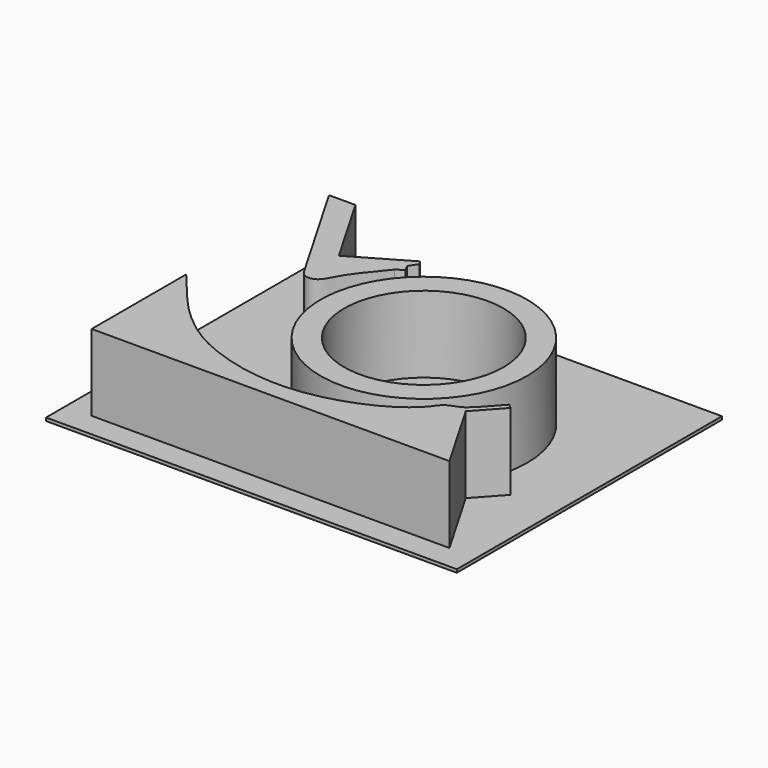
from build123d import *

# Parameters (mm, degrees)
F0_W     = 128.8466192782
F0_H     = 103.9387658238
F0_R     = 32.4149354106
F0_R_2   = 24.9955574606
F1_DEPTH = 1
F2_DEPTH = 25
F3_SCALE = 2.3137482768


with BuildPart() as f1:
    # F0 (on Top) → F1 (new body)
    with BuildSketch(Plane.XY):
        with Locations((14.2612140626, -5.0945468247)):
            Rectangle(F0_W, F0_H)
        with BuildLine():
            Line((-41.9851355255, -49.414653331), (-41.9851355255, -12.3467817903))
            add(Edge.make_bspline(
                [(-41.9851355255, -12.3467817903), (-36.3967784384, -18.8449727069), (-32.1424049152, -24.7040496659), (-22.8563463397, -32.9873221008), (-12.0101651624, -39.837428659), (16.564814538, -47.8863203718), (43.5484647751, -36.5438014269), (49.1027832031, -28.7805534899)],
                knots=[0, 0, 0, 0, 0.1844848392, 0.3316690726, 0.4896983473, 0.7323640813, 1, 1, 1, 1], degree=3))
            add(Edge.make_bspline(
                [(57.7565097543, -22.6376708612), (56.6207453111, -23.7747538402), (54.8924607702, -25.4631297698), (51.1620999135, -26.310544921), (49.4963274328, -28.0857197846), (49.1027832031, -28.7805534899)],
                knots=[0, 0, 0, 0, 0.3554545122, 0.6943021938, 1, 1, 1, 1], degree=3))
            Line((57.7565097543, -22.6376708612), (62.9957451229, -16.8610578102))
            Line((62.9957451229, -16.8610578102), (64.300657325, -18.0445786904))
            Line((64.300657325, -18.0445786904), (56.8408086757, -26.2695687958))
            Line((56.8408086757, -26.2695687958), (70.2343061566, -49.414653331))
            Line((70.2343061566, -49.414653331), (-41.9851355255, -49.414653331))
        make_face(mode=Mode.SUBTRACT)
        with BuildLine():
            Line((-32.6215874869, 42.3041246831), (-18.9677700843, 18.7341238128))
            Line((-18.9677700843, 18.7341238128), (-1.5299430816, 28.8356468081))
            Line((-1.5299430816, 28.8356468081), (-0.7622250123, 27.5954864919))
            Line((-0.7622250123, 27.5954864919), (-2.5057015009, 24.9544270337))
            Line((-2.5057015009, 24.9544270337), (-1.4959619148, 23.0094380677))
            Line((-1.4959619148, 23.0094380677), (-3.7306314334, 21.5362105519))
            add(Edge.make_bspline(
                [(-3.7306314334, 21.5362105519), (-6.5005469966, 18.0159286469), (-10.9410352174, 12.9963019479), (-13.1823487403, 8.3727682989), (-14.6379791594, 5.9356637591), (-16.901027249, 4.6935576771), (-19.530875768, 5.3695780508), (-20.0020056218, 6.3195019029), (-20.4997636371, 7.0544643041)],
                knots=[0, 0, 0, 0, 0.290363485, 0.4783981708, 0.6179320642, 0.7501008839, 0.8803191229, 1, 1, 1, 1], degree=3))
            Line((-20.4997636371, 7.0544643041), (-40.919467012, 42.3041246831))
            Line((-40.919467012, 42.3041246831), (-32.6215874869, 42.3041246831))
        make_face(mode=Mode.SUBTRACT)
        with Locations((24.4927369058, -2.2526283283)):
            Circle(F0_R, mode=Mode.SUBTRACT)
        with Locations((24.4927369058, -2.2526283283)):
            Circle(F0_R)
        with Locations((24.4927369058, -2.2526283283)):
            Circle(F0_R_2, mode=Mode.SUBTRACT)
        with Locations((24.4927369058, -2.2526283283)):
            Circle(F0_R_2)
        with BuildLine():
            Line((-1.5299430816, 28.8356468081), (-18.9677700843, 18.7341238128))
            Line((-18.9677700843, 18.7341238128), (-32.6215874869, 42.3041246831))
            Line((-32.6215874869, 42.3041246831), (-40.919467012, 42.3041246831))
            Line((-40.919467012, 42.3041246831), (-20.4997636371, 7.0544643041))
            add(Edge.make_bspline(
                [(-3.7306314334, 21.5362105519), (-6.5005469966, 18.0159286469), (-10.9410352174, 12.9963019479), (-13.1823487403, 8.3727682989), (-14.6379791594, 5.9356637591), (-16.901027249, 4.6935576771), (-19.530875768, 5.3695780508), (-20.0020056218, 6.3195019029), (-20.4997636371, 7.0544643041)],
                knots=[0, 0, 0, 0, 0.290363485, 0.4783981708, 0.6179320642, 0.7501008839, 0.8803191229, 1, 1, 1, 1], degree=3))
            Line((-3.7306314334, 21.5362105519), (-1.4959619148, 23.0094380677))
            Line((-1.4959619148, 23.0094380677), (-2.5057015009, 24.9544270337))
            Line((-2.5057015009, 24.9544270337), (-0.7622250123, 27.5954864919))
            Line((-0.7622250123, 27.5954864919), (-1.5299430816, 28.8356468081))
        make_face()
        with BuildLine():
            add(Edge.make_bspline(
                [(-41.9851355255, -12.3467817903), (-36.3967784384, -18.8449727069), (-32.1424049152, -24.7040496659), (-22.8563463397, -32.9873221008), (-12.0101651624, -39.837428659), (16.564814538, -47.8863203718), (43.5484647751, -36.5438014269), (49.1027832031, -28.7805534899)],
                knots=[0, 0, 0, 0, 0.1844848392, 0.3316690726, 0.4896983473, 0.7323640813, 1, 1, 1, 1], degree=3))
            Line((-41.9851355255, -12.3467817903), (-41.9851355255, -49.414653331))
            Line((-41.9851355255, -49.414653331), (70.2343061566, -49.414653331))
            Line((70.2343061566, -49.414653331), (56.8408086757, -26.2695687958))
            Line((56.8408086757, -26.2695687958), (64.300657325, -18.0445786904))
            Line((64.300657325, -18.0445786904), (62.9957451229, -16.8610578102))
            Line((62.9957451229, -16.8610578102), (57.7565097543, -22.6376708612))
            add(Edge.make_bspline(
                [(57.7565097543, -22.6376708612), (56.6207453111, -23.7747538402), (54.8924607702, -25.4631297698), (51.1620999135, -26.310544921), (49.4963274328, -28.0857197846), (49.1027832031, -28.7805534899)],
                knots=[0, 0, 0, 0, 0.3554545122, 0.6943021938, 1, 1, 1, 1], degree=3))
        make_face()
    extrude(amount=F1_DEPTH)

    # F0 (on Top) → F2 (join)
    with BuildSketch(Plane.XY):
        with BuildLine():
            Line((-1.5299430816, 28.8356468081), (-18.9677700843, 18.7341238128))
            Line((-18.9677700843, 18.7341238128), (-32.6215874869, 42.3041246831))
            Line((-32.6215874869, 42.3041246831), (-40.919467012, 42.3041246831))
            Line((-40.919467012, 42.3041246831), (-20.4997636371, 7.0544643041))
            add(Edge.make_bspline(
                [(-3.7306314334, 21.5362105519), (-6.5005469966, 18.0159286469), (-10.9410352174, 12.9963019479), (-13.1823487403, 8.3727682989), (-14.6379791594, 5.9356637591), (-16.901027249, 4.6935576771), (-19.530875768, 5.3695780508), (-20.0020056218, 6.3195019029), (-20.4997636371, 7.0544643041)],
                knots=[0, 0, 0, 0, 0.290363485, 0.4783981708, 0.6179320642, 0.7501008839, 0.8803191229, 1, 1, 1, 1], degree=3))
            Line((-3.7306314334, 21.5362105519), (-1.4959619148, 23.0094380677))
            Line((-1.4959619148, 23.0094380677), (-2.5057015009, 24.9544270337))
            Line((-2.5057015009, 24.9544270337), (-0.7622250123, 27.5954864919))
            Line((-0.7622250123, 27.5954864919), (-1.5299430816, 28.8356468081))
        make_face()
        with Locations((24.4927369058, -2.2526283283)):
            Circle(F0_R)
        with Locations((24.4927369058, -2.2526283283)):
            Circle(F0_R_2, mode=Mode.SUBTRACT)
        with BuildLine():
            add(Edge.make_bspline(
                [(-41.9851355255, -12.3467817903), (-36.3967784384, -18.8449727069), (-32.1424049152, -24.7040496659), (-22.8563463397, -32.9873221008), (-12.0101651624, -39.837428659), (16.564814538, -47.8863203718), (43.5484647751, -36.5438014269), (49.1027832031, -28.7805534899)],
                knots=[0, 0, 0, 0, 0.1844848392, 0.3316690726, 0.4896983473, 0.7323640813, 1, 1, 1, 1], degree=3))
            Line((-41.9851355255, -12.3467817903), (-41.9851355255, -49.414653331))
            Line((-41.9851355255, -49.414653331), (70.2343061566, -49.414653331))
            Line((70.2343061566, -49.414653331), (56.8408086757, -26.2695687958))
            Line((56.8408086757, -26.2695687958), (64.300657325, -18.0445786904))
            Line((64.300657325, -18.0445786904), (62.9957451229, -16.8610578102))
            Line((62.9957451229, -16.8610578102), (57.7565097543, -22.6376708612))
            add(Edge.make_bspline(
                [(57.7565097543, -22.6376708612), (56.6207453111, -23.7747538402), (54.8924607702, -25.4631297698), (51.1620999135, -26.310544921), (49.4963274328, -28.0857197846), (49.1027832031, -28.7805534899)],
                knots=[0, 0, 0, 0, 0.3554545122, 0.6943021938, 1, 1, 1, 1], degree=3))
        make_face()
    extrude(amount=F2_DEPTH)


with BuildPart() as f1_1:
    # F3: moved
    add(f1.part.scale(F3_SCALE).moved(Location((-32.177290905, 2.9593865846, 0))))


solid = f1_1.part
